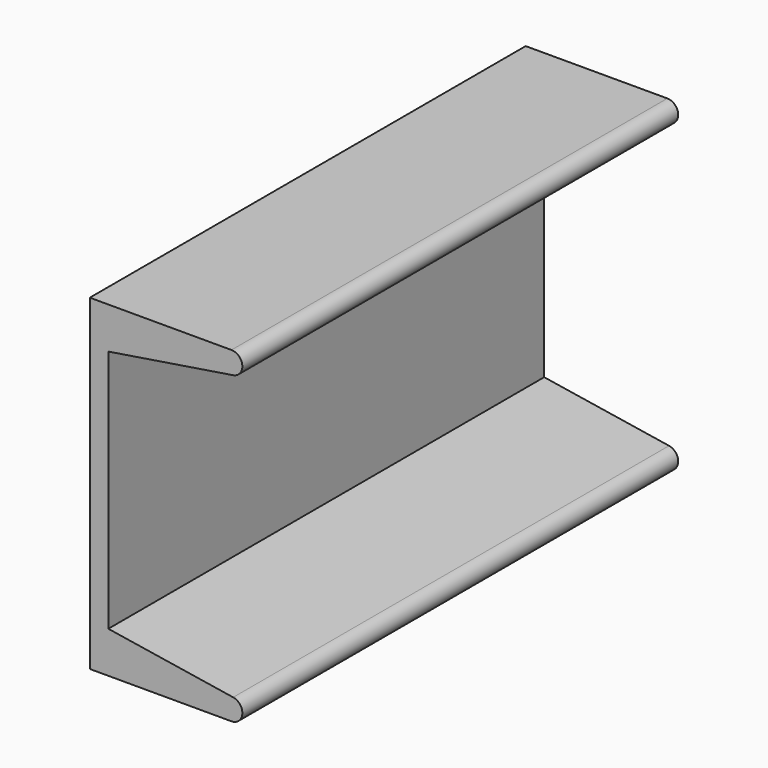
from build123d import *

# Parameters (mm, degrees)
F1_DEPTH = 127


with BuildPart() as f1:
    # F0 (on Front) → F1 (new body)
    with BuildSketch(Plane.XZ):
        with BuildLine():
            Line((0, 76.2), (0, 0))
            Line((0, 0), (33.02, 0))
            ThreePointArc((33.02, 0), (35.55217, 2.340714), (33.417344, 5.048728))
            Line((33.417344, 5.048728), (4.318, 9.657612))
            Line((4.318, 9.657612), (4.318, 66.542388))
            Line((4.318, 66.542388), (33.417344, 71.151272))
            ThreePointArc((33.417344, 71.151272), (35.55217, 73.859286), (33.02, 76.2))
            Line((33.02, 76.2), (0, 76.2))
        make_face()
    extrude(amount=F1_DEPTH)


solid = f1.part
